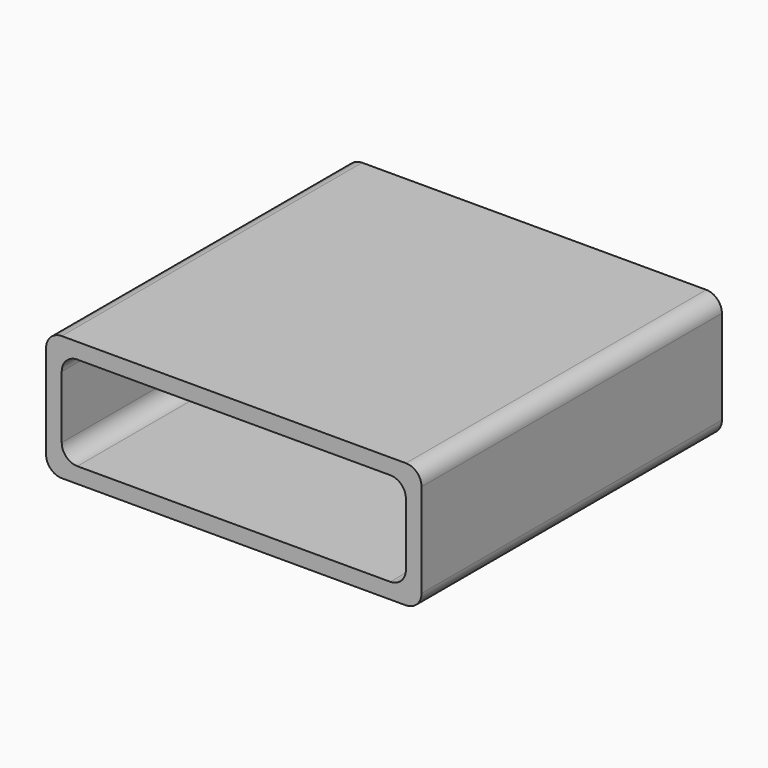
from build123d import *

# Parameters (mm, degrees)
F0_W     = 76.2
F0_H     = 25.4
F1_DEPTH = 76.2
F2_T     = -3.175
F3_R     = 3.175


with BuildPart() as f1:
    # F0 (on Front) → F1 (new body)
    with BuildSketch(Plane.XZ):
        with Locations((19.7176617778, 16.3246961311)):
            Rectangle(F0_W, F0_H)
    extrude(amount=F1_DEPTH)

    # F2
    f2_openings = [f1.faces().sort_by_distance(p)[0] for p in [
        (19.717662, -76.2, 16.324696),
        (19.717662, 0, 16.324696),
    ]]
    offset(amount=F2_T, openings=f2_openings)

    # F3
    f3_edges = [f1.edges().sort_by_distance(p)[0] for p in [
        (-18.382338, -38.1, 29.024696),
        (-15.207338, -38.1, 25.849696),
        (-15.207338, -38.1, 6.799696),
        (54.642662, -38.1, 6.799696),
        (54.642662, -38.1, 25.849696),
        (-18.382338, -38.1, 3.624696),
        (57.817662, -38.1, 29.024696),
        (57.817662, -38.1, 3.624696),
    ]]
    fillet(f3_edges, radius=F3_R)


solid = f1.part
